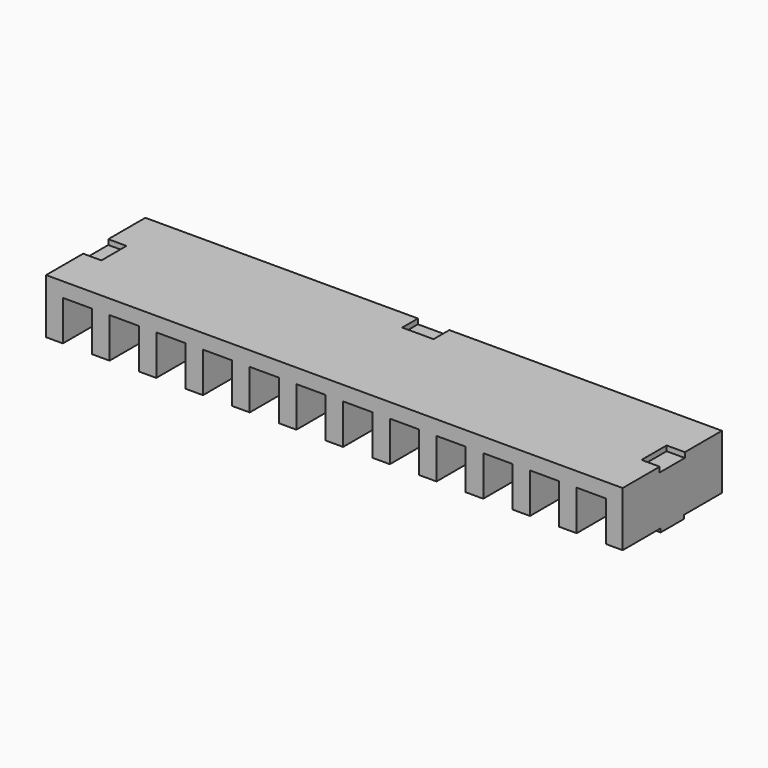
from build123d import *

# Parameters (mm, degrees)
F0_W      = 790
F0_H      = 75
F1_DEPTH  = 170
F2_W      = 40
F2_H      = 55
F3_DEPTH  = 150
F5_DEPTH  = 25
F4_W      = 40
F4_H      = 5
F6_DEPTH  = 23
F7_W      = 40
F7_H      = 5
F8_DEPTH  = 23
F10_DEPTH = 25
F12_DEPTH = 27
F13_W     = 40
F13_H     = 5
F14_DEPTH = 20
F15_W     = 40
F15_H     = 30
F16_DEPTH = 5


with BuildPart() as f1:
    # F0 (on Front) → F1 (new body)
    with BuildSketch(Plane.XZ):
        with Locations((-9.780855, -37.5)):
            Rectangle(F0_W, F0_H)
    extrude(amount=F1_DEPTH)

    # F2 (on face) → F3 (cut)
    with BuildSketch(Plane.XZ.offset(170)):
        with Locations((-361.780855, -47.5)):
            Rectangle(F2_W, F2_H)
        with Locations((-297.780855, -47.5)):
            Rectangle(F2_W, F2_H)
        with Locations((-233.780855, -47.5)):
            Rectangle(F2_W, F2_H)
        with Locations((-169.780855, -47.5)):
            Rectangle(F2_W, F2_H)
        with Locations((-105.780855, -47.5)):
            Rectangle(F2_W, F2_H)
        with Locations((-41.780855, -47.5)):
            Rectangle(F2_W, F2_H)
        with Locations((22.219145, -47.5)):
            Rectangle(F2_W, F2_H)
        with Locations((86.219145, -47.5)):
            Rectangle(F2_W, F2_H)
        with Locations((150.219145, -47.5)):
            Rectangle(F2_W, F2_H)
        with Locations((214.219145, -47.5)):
            Rectangle(F2_W, F2_H)
        with Locations((278.219145, -47.5)):
            Rectangle(F2_W, F2_H)
        with Locations((342.219145, -47.5)):
            Rectangle(F2_W, F2_H)
    extrude(amount=-F3_DEPTH, mode=Mode.SUBTRACT)

    # F4 (on face) → F5 (cut)
    with BuildSketch(Plane(origin=(-404.780855, 0, 0), x_dir=(0, -1, 0), z_dir=(-1, 0, 0))):
        Polygon((106.5, 0), (85, 0), (63.5, 0), (63.5, -7), (106.5, -7), align=None)
    extrude(amount=-F5_DEPTH, mode=Mode.SUBTRACT)

    # F4 (on face) → F6 (join)
    with BuildSketch(Plane(origin=(-404.780855, 0, 0), x_dir=(0, -1, 0), z_dir=(-1, 0, 0))):
        with Locations((85, -77.5)):
            Rectangle(F4_W, F4_H)
    extrude(amount=-F6_DEPTH)

    # F7 (on face) → F8 (join)
    with BuildSketch(Plane.YZ.offset(385.219145)):
        with Locations((-85, -77.5)):
            Rectangle(F7_W, F7_H)
    extrude(amount=-F8_DEPTH)

    # F9 (on face) → F10 (cut)
    with BuildSketch(Plane.YZ.offset(385.219145)):
        Polygon((-63.5, 0), (-85, 0), (-106.5, 0), (-106.5, -7), (-63.5, -7), align=None)
    extrude(amount=-F10_DEPTH, mode=Mode.SUBTRACT)

    # F11 (on face) → F12 (cut)
    with BuildSketch(Plane(origin=(0, 0, 0), x_dir=(-1, 0, 0), z_dir=(0, 1, 0))):
        Polygon((31.280855, 0), (9.780855, 0), (-11.719145, 0), (-11.719145, -7), (31.280855, -7), align=None)
    extrude(amount=-F12_DEPTH, mode=Mode.SUBTRACT)

    # F13 (on face) → F14 (join)
    with BuildSketch(Plane(origin=(0, 0, 0), x_dir=(-1, 0, 0), z_dir=(0, 1, 0))):
        with Locations((9.780855, -77.5)):
            Rectangle(F13_W, F13_H)
    extrude(amount=-F14_DEPTH)

    # F15 (on face) → F16 (cut)
    with BuildSketch(Plane(origin=(0, 0, -20), x_dir=(1, 0, 0), z_dir=(0, 0, -1))):
        with Locations((-361.780855, 35)):
            Rectangle(F15_W, F15_H)
        with Locations((-297.780855, 35)):
            Rectangle(F15_W, F15_H)
        with Locations((-233.780855, 35)):
            Rectangle(F15_W, F15_H)
        with Locations((-169.780855, 35)):
            Rectangle(F15_W, F15_H)
        with Locations((-105.780855, 35)):
            Rectangle(F15_W, F15_H)
        with Locations((-41.780855, 35)):
            Rectangle(F15_W, F15_H)
        with Locations((22.219145, 35)):
            Rectangle(F15_W, F15_H)
        with Locations((86.219145, 35)):
            Rectangle(F15_W, F15_H)
        with Locations((150.219145, 35)):
            Rectangle(F15_W, F15_H)
        with Locations((214.219145, 35)):
            Rectangle(F15_W, F15_H)
        with Locations((278.219145, 35)):
            Rectangle(F15_W, F15_H)
        with Locations((342.219145, 35)):
            Rectangle(F15_W, F15_H)
    extrude(amount=-F16_DEPTH, mode=Mode.SUBTRACT)


solid = f1.part
